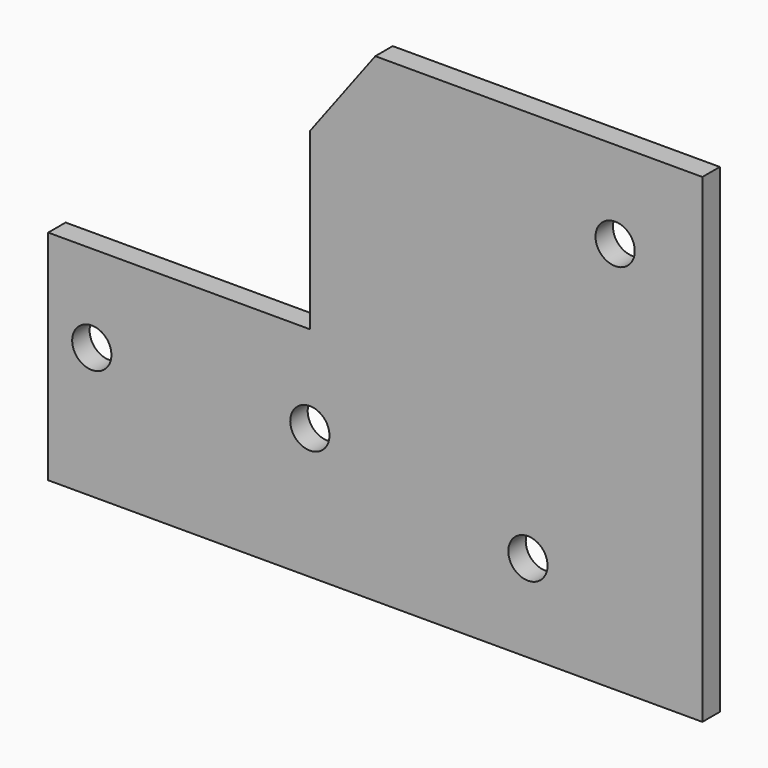
from build123d import *

# Parameters (mm, degrees)
F1_DEPTH = 5
F3_D     = 9
F5_D     = 9


with BuildPart() as f1:
    # F0 (on Front) → F1 (new body)
    with BuildSketch(Plane.XZ):
        Polygon((0, 50), (0, 0), (150, 0), (150, 110), (75, 110), (60, 90), (60, 50), align=None)
    extrude(amount=F1_DEPTH)

    # F3 (through all)
    with Locations(Plane.XZ.offset(5)):
        with Locations((10, 30), (60, 30)):
            Hole(F3_D / 2)

    # F5 (through all)
    with Locations(Plane.XZ.offset(5)):
        with Locations((110, 20), (130, 90)):
            Hole(F5_D / 2)


solid = f1.part
